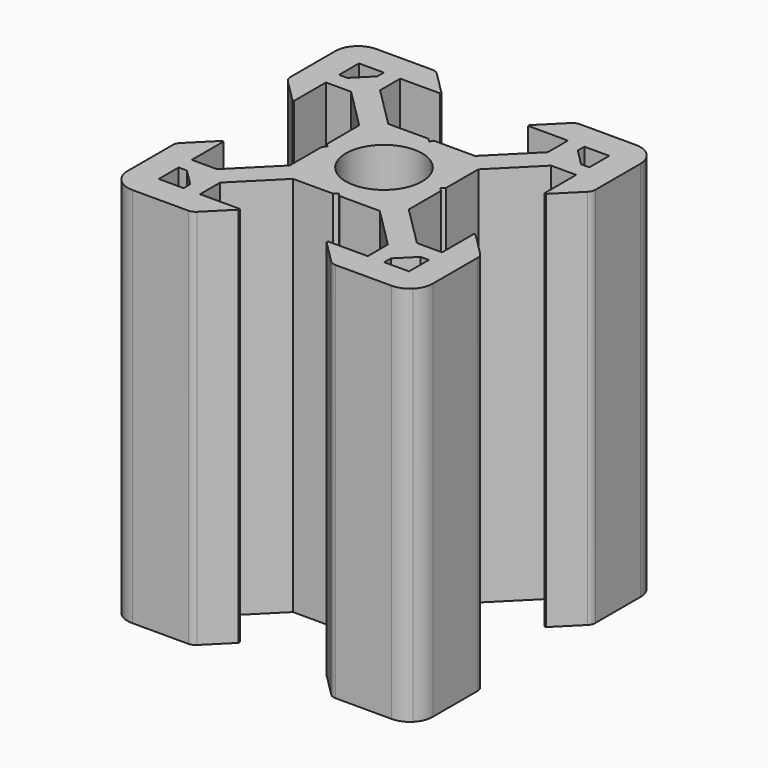
from build123d import *

# Parameters (mm, degrees)
F0_R     = 2.5
F1_DEPTH = 25


with BuildPart() as f1:
    # F0 (on Top) → F1 (new body)
    with BuildSketch(Plane.XY):
        with BuildLine():
            Line((-0.206975, 3.902523), (-2.845819, 3.902523))
            Line((-2.845819, 3.902523), (-5.497237, 6.55394))
            Line((-5.497237, 6.55394), (-5.497237, 8.202523))
            Line((-5.497237, 8.202523), (-2.885113, 8.202523))
            Line((-2.885113, 8.202523), (-2.885113, 8.30915))
            Line((-2.885113, 8.30915), (-4.400227, 9.824264))
            ThreePointArc((-4.400227, 9.824264), (-4.594881, 9.954328), (-4.824491, 10))
            Line((-4.824491, 10), (-8.5, 10))
            ThreePointArc((-8.5, 10), (-9.074025, 9.885819), (-9.56066, 9.56066))
            ThreePointArc((-9.56066, 9.56066), (-9.885819, 9.074025), (-10, 8.5))
            Line((-10, 8.5), (-10, 4.824491))
            ThreePointArc((-10, 4.824491), (-9.954328, 4.594881), (-9.824264, 4.400227))
            Line((-9.824264, 4.400227), (-8.30915, 2.885113))
            Line((-8.30915, 2.885113), (-8.202523, 2.885113))
            Line((-8.202523, 2.885113), (-8.202523, 5.497237))
            Line((-8.202523, 5.497237), (-6.55394, 5.497237))
            Line((-6.55394, 5.497237), (-3.902523, 2.845819))
            Line((-3.902523, 2.845819), (-3.902523, 0.206975))
            Line((-3.902523, 0.206975), (-3.695548, 0))
            Line((-3.695548, 0), (-3.902523, -0.206975))
            Line((-3.902523, -0.206975), (-3.902523, -2.845819))
            Line((-3.902523, -2.845819), (-6.55394, -5.497237))
            Line((-6.55394, -5.497237), (-8.202523, -5.497237))
            Line((-8.202523, -5.497237), (-8.202523, -2.885113))
            Line((-8.202523, -2.885113), (-8.30915, -2.885113))
            Line((-8.30915, -2.885113), (-9.824264, -4.400227))
            ThreePointArc((-9.824264, -4.400227), (-9.954328, -4.594881), (-10, -4.824491))
            Line((-10, -4.824491), (-10, -8.5))
            ThreePointArc((-10, -8.5), (-9.885819, -9.074025), (-9.56066, -9.56066))
            ThreePointArc((-9.56066, -9.56066), (-9.074025, -9.885819), (-8.5, -10))
            Line((-8.5, -10), (-4.824491, -10))
            ThreePointArc((-4.824491, -10), (-4.594881, -9.954328), (-4.400227, -9.824264))
            Line((-4.400227, -9.824264), (-2.885113, -8.30915))
            Line((-2.885113, -8.30915), (-2.885113, -8.202523))
            Line((-2.885113, -8.202523), (-5.497237, -8.202523))
            Line((-5.497237, -8.202523), (-5.497237, -6.55394))
            Line((-5.497237, -6.55394), (-2.845819, -3.902523))
            Line((-2.845819, -3.902523), (-0.206975, -3.902523))
            Line((-0.206975, -3.902523), (0, -3.695548))
            Line((0, -3.695548), (0.206975, -3.902523))
            Line((0.206975, -3.902523), (2.845819, -3.902523))
            Line((2.845819, -3.902523), (5.497237, -6.55394))
            Line((5.497237, -6.55394), (5.497237, -8.202523))
            Line((5.497237, -8.202523), (2.885113, -8.202523))
            Line((2.885113, -8.202523), (2.885113, -8.30915))
            Line((2.885113, -8.30915), (4.400227, -9.824264))
            ThreePointArc((4.400227, -9.824264), (4.594881, -9.954328), (4.824491, -10))
            Line((4.824491, -10), (8.5, -10))
            ThreePointArc((8.5, -10), (9.074025, -9.885819), (9.56066, -9.56066))
            ThreePointArc((9.56066, -9.56066), (9.885819, -9.074025), (10, -8.5))
            Line((10, -8.5), (10, -4.824491))
            ThreePointArc((10, -4.824491), (9.954328, -4.594881), (9.824264, -4.400227))
            Line((9.824264, -4.400227), (8.30915, -2.885113))
            Line((8.30915, -2.885113), (8.202523, -2.885113))
            Line((8.202523, -2.885113), (8.202523, -5.497237))
            Line((8.202523, -5.497237), (6.55394, -5.497237))
            Line((6.55394, -5.497237), (3.902523, -2.845819))
            Line((3.902523, -2.845819), (3.902523, -0.206975))
            Line((3.902523, -0.206975), (3.695548, 0))
            Line((3.695548, 0), (3.902523, 0.206975))
            Line((3.902523, 0.206975), (3.902523, 2.845819))
            Line((3.902523, 2.845819), (6.55394, 5.497237))
            Line((6.55394, 5.497237), (8.202523, 5.497237))
            Line((8.202523, 5.497237), (8.202523, 2.885113))
            Line((8.202523, 2.885113), (8.30915, 2.885113))
            Line((8.30915, 2.885113), (9.824264, 4.400227))
            ThreePointArc((9.824264, 4.400227), (9.954328, 4.594881), (10, 4.824491))
            Line((10, 4.824491), (10, 8.5))
            ThreePointArc((10, 8.5), (9.885819, 9.074025), (9.56066, 9.56066))
            ThreePointArc((9.56066, 9.56066), (9.074025, 9.885819), (8.5, 10))
            Line((8.5, 10), (4.824491, 10))
            ThreePointArc((4.824491, 10), (4.594881, 9.954328), (4.400227, 9.824264))
            Line((4.400227, 9.824264), (2.885113, 8.30915))
            Line((2.885113, 8.30915), (2.885113, 8.202523))
            Line((2.885113, 8.202523), (5.497237, 8.202523))
            Line((5.497237, 8.202523), (5.497237, 6.55394))
            Line((5.497237, 6.55394), (2.845819, 3.902523))
            Line((2.845819, 3.902523), (0.206975, 3.902523))
            Line((0.206975, 3.902523), (0, 3.695548))
            Line((0, 3.695548), (-0.206975, 3.902523))
        make_face()
        Polygon((-7.11684, -7.11684), (-6.573574, -7.660106), (-6.573574, -8.202523), (-8.202523, -8.202523), (-8.202523, -6.573574), (-7.660106, -6.573574), align=None, mode=Mode.SUBTRACT)
        Polygon((7.11684, -7.11684), (7.660106, -6.573574), (8.202523, -6.573574), (8.202523, -8.202523), (6.573574, -8.202523), (6.573574, -7.660106), align=None, mode=Mode.SUBTRACT)
        Polygon((-6.573574, 8.202523), (-6.573574, 7.660106), (-7.11684, 7.11684), (-7.660106, 6.573574), (-8.202523, 6.573574), (-8.202523, 8.202523), align=None, mode=Mode.SUBTRACT)
        Circle(F0_R, mode=Mode.SUBTRACT)
        Polygon((7.11684, 7.11684), (6.573574, 7.660106), (6.573574, 8.202523), (8.202523, 8.202523), (8.202523, 6.573574), (7.660106, 6.573574), align=None, mode=Mode.SUBTRACT)
    extrude(amount=F1_DEPTH)


solid = f1.part
